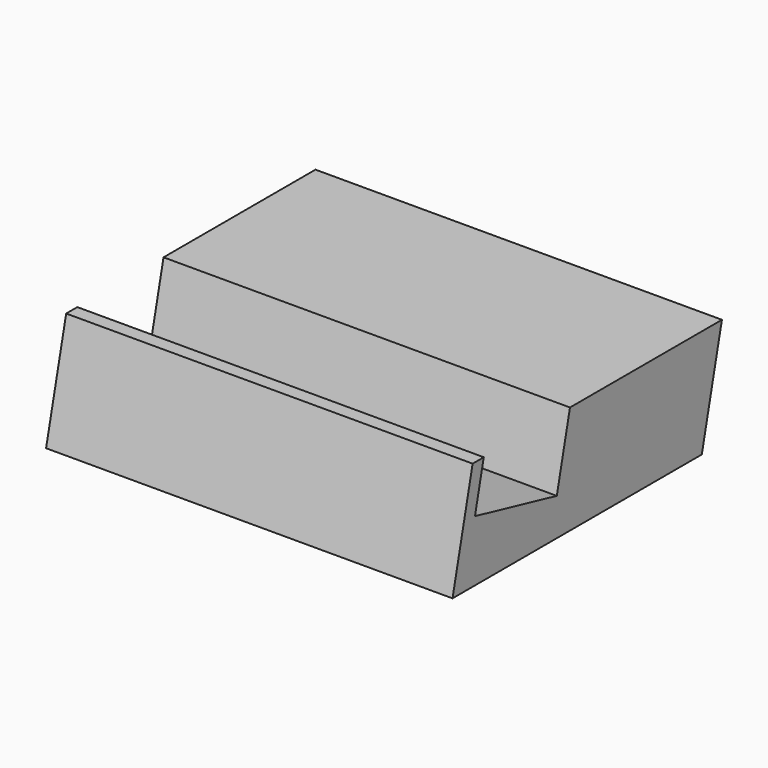
from build123d import *

# Parameters (mm, degrees)
F1_DEPTH      = 30
F1_DEPTH_BACK = 30


with BuildPart() as f1:
    # F0 (on Right) → F1 (new body, two sides)
    with BuildSketch(Plane.YZ) as f1_sk:
        Polygon((-14.456012, 0), (-16.509037, 0), (-20.217727, -16), (25.782273, -16), (29.490963, 0), (1.454933, 0), (-0.978895, -10.5), (-16.078564, -7), align=None)
    extrude(amount=F1_DEPTH)
    extrude(f1_sk.sketch, amount=-F1_DEPTH_BACK)


solid = f1.part
